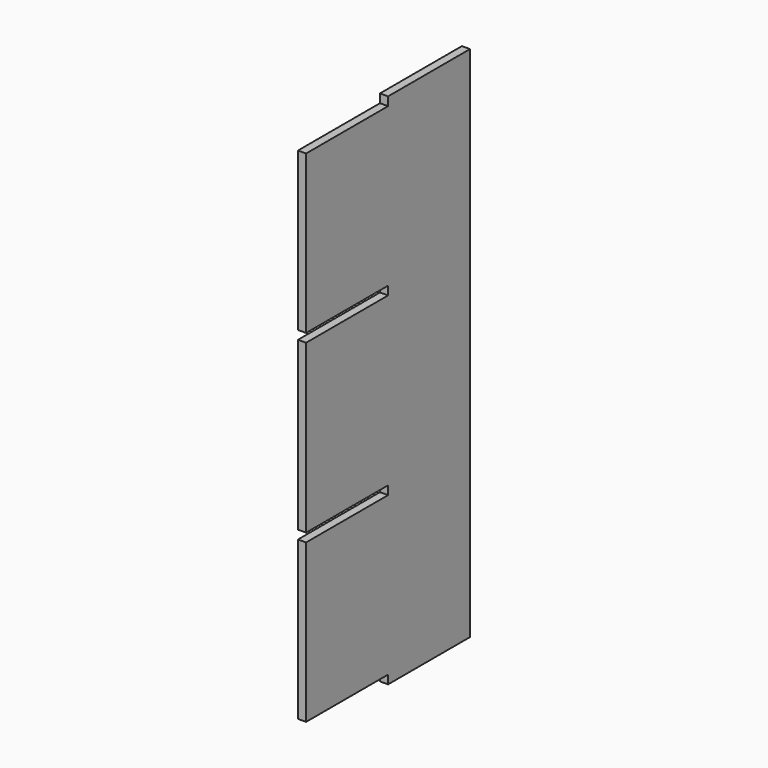
from build123d import *

# Parameters (mm, degrees)
F1_DEPTH = 9.525


with BuildPart() as f1:
    # F0 (on Right) → F1 (new body, symmetric)
    with BuildSketch(Plane.YZ):
        Polygon((241.3, -196.85), (241.3, 589.28), (241.3, 609.6), (0, 609.6), (0, 589.28), (-241.3, 589.28), (-241.3, 217.17), (0, 217.17), (0, 196.85), (-241.3, 196.85), (-241.3, -196.85), (0, -196.85), (0, -217.17), (-241.3, -217.17), (-241.3, -589.28), (0, -589.28), (0, -609.6), (241.3, -609.6), (241.3, -217.17), align=None)
    extrude(amount=F1_DEPTH, both=True)


solid = f1.part
